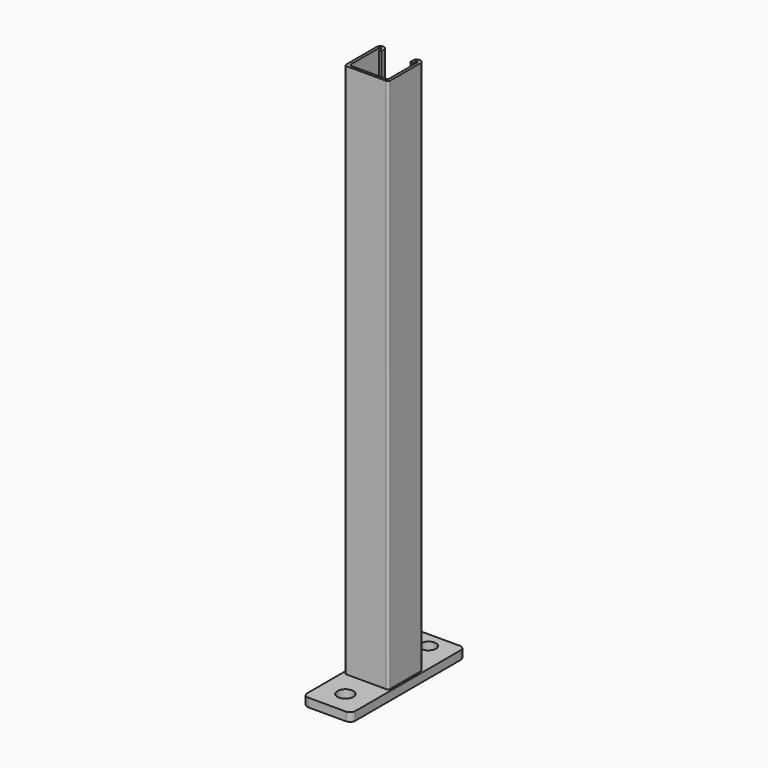
from build123d import *

# Parameters (mm, degrees)
F0_W     = 2.5
F0_H     = 3
F1_DEPTH = 500
F2_R     = 2
F3_R     = 7
F3_R_2   = 7.5
F4_DEPTH = 8


with BuildPart() as f1:
    # F0 (on Top) → F1 (new body)
    with BuildSketch(Plane.XY):
        with BuildLine():
            Line((-20.5, 17), (-20.5, -20.5))
            Line((-20.5, -20.5), (20.5, -20.5))
            Line((20.5, -20.5), (20.5, 17))
            ThreePointArc((20.5, 17), (17, 20.5), (13.5, 17))
            Line((13.5, 17), (13.5, 14))
            Line((13.5, 14), (16, 14))
            Line((16, 14), (16, 17))
            ThreePointArc((16, 17), (17, 18), (18, 17))
            Line((18, 17), (18, -18))
            Line((18, -18), (-18, -18))
            Line((-18, -18), (-18, 17))
            ThreePointArc((-18, 17), (-17, 18), (-16, 17))
            Line((-16, 17), (-13.5, 17))
            ThreePointArc((-13.5, 17), (-17, 20.5), (-20.5, 17))
        make_face()
        with Locations((-14.75, 15.5)):
            Rectangle(F0_W, F0_H)
    extrude(amount=F1_DEPTH)

    # F2
    f2_edges = [f1.edges().sort_by_distance(p)[0] for p in [
        (-20.5, -20.5, 250),
        (20.5, -20.5, 250),
        (-18, -18, 250),
        (18, -18, 250),
    ]]
    fillet(f2_edges, radius=F2_R)

    # F3 (on face) → F4 (join)
    with BuildSketch(Plane(origin=(0, 0, 0), x_dir=(1, 0, 0), z_dir=(0, 0, -1))):
        with BuildLine():
            Line((17.5, 66.5), (-17.5, 66.5))
            ThreePointArc((-17.5, 66.5), (-21.035534, 65.035534), (-22.5, 61.5))
            Line((-22.5, 61.5), (-22.5, -61.5))
            ThreePointArc((-22.5, -61.5), (-21.035534, -65.035534), (-17.5, -66.5))
            Line((-17.5, -66.5), (17.5, -66.5))
            ThreePointArc((17.5, -66.5), (21.035534, -65.035534), (22.5, -61.5))
            Line((22.5, -61.5), (22.5, 61.5))
            ThreePointArc((22.5, 61.5), (21.035534, 65.035534), (17.5, 66.5))
        make_face()
        with Locations((0, -52)):
            Circle(F3_R, mode=Mode.SUBTRACT)
        with Locations((0, 45)):
            Circle(F3_R_2, mode=Mode.SUBTRACT)
    extrude(amount=F4_DEPTH)


solid = f1.part
